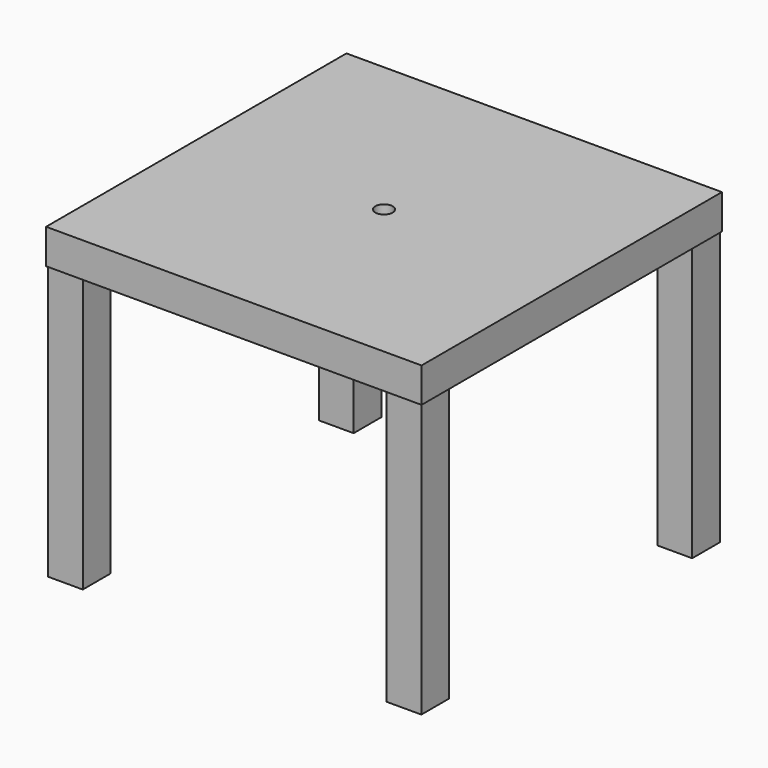
from build123d import *

# Parameters (mm, degrees)
F0_W     = 50.8
F0_H     = 50.8
F1_DEPTH = 400.05
F2_W     = 549.275
F2_H     = 549.275
F2_W_2   = 50.8
F2_H_2   = 50.8
F3_DEPTH = 50.8
F4_R     = 12.7
F5_DEPTH = 450.851


with BuildPart() as f1:
    # F0 (on Top) → F1 (new body)
    with BuildSketch(Plane.XY):
        with Locations((-247.65, 247.65)):
            Rectangle(F0_W, F0_H)
    extrude(amount=F1_DEPTH)



with BuildPart() as f1b:
    # F0 (on Top) → F1, piece 2 (new body)
    with BuildSketch(Plane.XY):
        with Locations((247.65, 247.65)):
            Rectangle(F0_W, F0_H)
    extrude(amount=F1_DEPTH)


with BuildPart() as f1c:
    # F0 (on Top) → F1, piece 3 (new body)
    with BuildSketch(Plane.XY):
        with Locations((-247.65, -247.65)):
            Rectangle(F0_W, F0_H)
    extrude(amount=F1_DEPTH)


with BuildPart() as f1d:
    # F0 (on Top) → F1, piece 4 (new body)
    with BuildSketch(Plane.XY):
        with Locations((247.65, -247.65)):
            Rectangle(F0_W, F0_H)
    extrude(amount=F1_DEPTH)


with BuildPart() as f1_1:
    add(f1.part)

    add(f1b.part)  # F3 merges F1b

    add(f1c.part)  # F3 merges F1c

    add(f1d.part)  # F3 merges F1d
    # F2 (on face) → F3 (join)
    with BuildSketch(Plane.XY.offset(400.05)):
        Rectangle(F2_W, F2_H)
        with Locations((-247.65, -247.65)):
            Rectangle(F2_W_2, F2_H_2, mode=Mode.SUBTRACT)
        with Locations((-247.65, -247.65)):
            Rectangle(F2_W_2, F2_H_2)
    extrude(amount=F3_DEPTH)

    # F4 (on face) → F5 (cut, through all)
    with BuildSketch(Plane.XY.offset(450.85)):
        Circle(F4_R)
    extrude(amount=-F5_DEPTH, mode=Mode.SUBTRACT)


solid = f1_1.part
